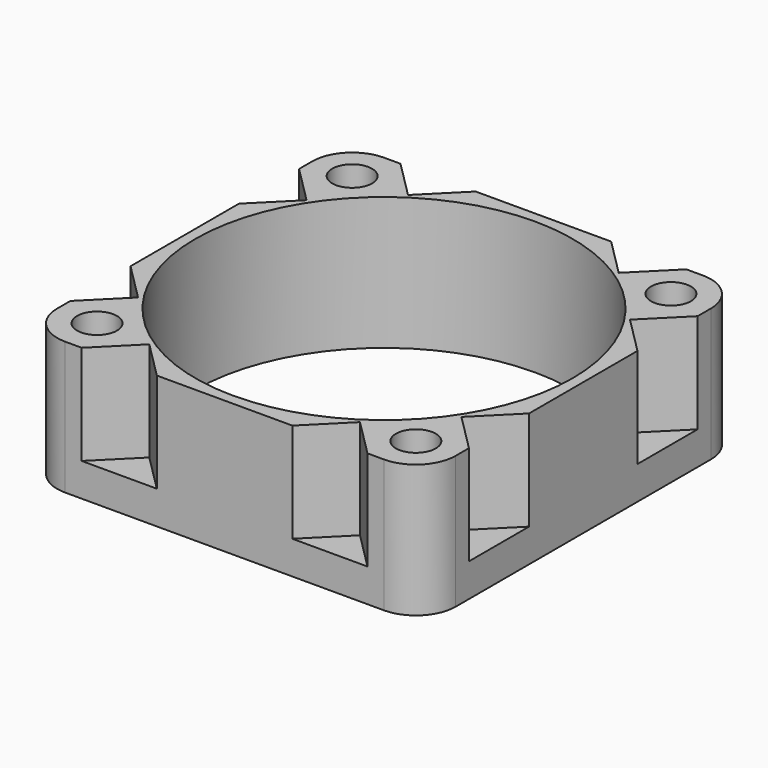
from build123d import *

# Parameters (mm, degrees)
F0_R     = 1.5
F0_R_2   = 14.2
F1_DEPTH = 10
F3_DEPTH = 7.5


with BuildPart() as f1:
    # F0 (on Top) → F1 (new body)
    with BuildSketch(Plane.XY):
        with BuildLine():
            Line((12, 15), (-12, 15))
            ThreePointArc((-12, 15), (-14.12132, 14.12132), (-15, 12))
            Line((-15, 12), (-15, -12))
            ThreePointArc((-15, -12), (-14.12132, -14.12132), (-12, -15))
            Line((-12, -15), (12, -15))
            ThreePointArc((12, -15), (14.12132, -14.12132), (15, -12))
            Line((15, -12), (15, 12))
            ThreePointArc((15, 12), (14.12132, 14.12132), (12, 15))
        make_face()
        with Locations((-12, -12)):
            Circle(F0_R, mode=Mode.SUBTRACT)
        with Locations((12, -12)):
            Circle(F0_R, mode=Mode.SUBTRACT)
        with Locations((-12, 12)):
            Circle(F0_R, mode=Mode.SUBTRACT)
        Circle(F0_R_2, mode=Mode.SUBTRACT)
        with Locations((12, 12)):
            Circle(F0_R, mode=Mode.SUBTRACT)
    extrude(amount=F1_DEPTH)

    # F2 (on face) → F3 (cut)
    with BuildSketch(Plane.XY.offset(10)):
        Polygon((-5.100505, 15), (-10.757359, 15), (-7.928932, 12.171573), align=None)
        Polygon((-15, 5.100505), (-12.171573, 7.928932), (-15, 10.757359), align=None)
        Polygon((-12.171573, -7.928932), (-15, -5.100505), (-15, -10.757359), align=None)
        Polygon((-7.928932, -12.171573), (-10.757359, -15), (-5.100505, -15), align=None)
        Polygon((7.928932, -12.171573), (5.100505, -15), (10.757359, -15), align=None)
        Polygon((12.171573, -7.928932), (15, -10.757359), (15, -5.100505), align=None)
        Polygon((12.171573, 7.928932), (15, 5.100505), (15, 10.757359), align=None)
        Polygon((7.928932, 12.171573), (10.757359, 15), (5.100505, 15), align=None)
    extrude(amount=-F3_DEPTH, mode=Mode.SUBTRACT)


solid = f1.part
